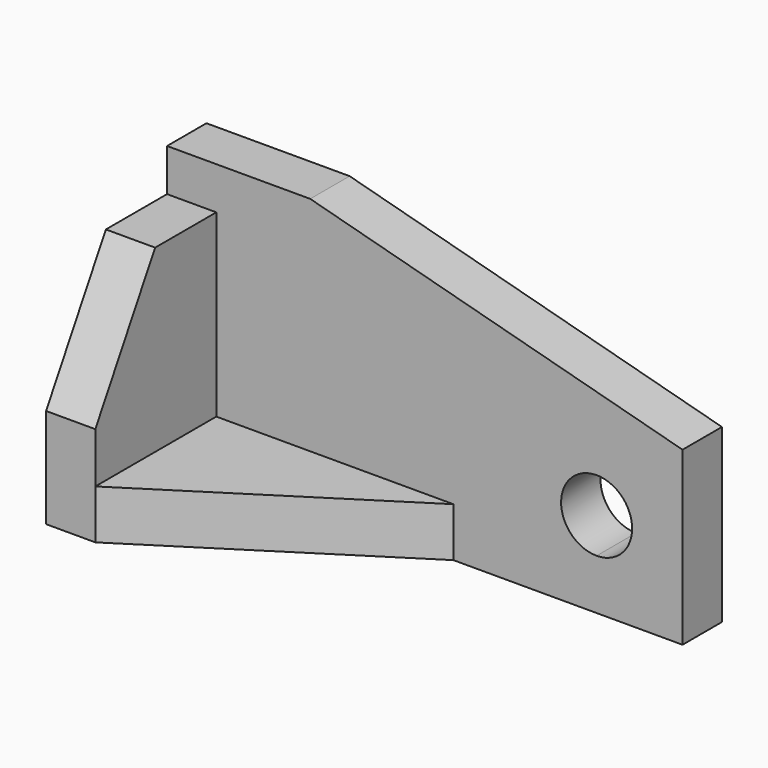
from build123d import *

# Parameters (mm, degrees)
F1_DEPTH = 10.922
F3_DEPTH = 33.528
F5_DEPTH = 10.923
F7_DEPTH = 10.923
F9_DEPTH = 10.923


with BuildPart() as f1:
    # F0 (on Front) → F1 (new body)
    with BuildSketch(Plane.XZ):
        Polygon((46.959374, 2.496264), (-35.590626, 24.61547), (-67.340626, 24.61547), (-67.340626, -35.58253), (46.959374, -35.58253), align=None)
    extrude(amount=F1_DEPTH)

    # F2 (on face) → F3 (join)
    with BuildSketch(Plane.XZ.offset(10.922)):
        Polygon((-56.418626, 15.21747), (-67.340626, 15.21747), (-67.340626, -35.58253), (-3.840626, -35.58253), (-3.840626, -24.66053), (-56.418626, -24.66053), align=None)
    extrude(amount=F3_DEPTH)

    # F4 (on face) → F5 (cut, through all)
    with BuildSketch(Plane.YZ.offset(-56.418626)):
        Polygon((-44.45, 15.21747), (-44.45, -13.48453), (-27.878893, 15.21747), align=None)
    extrude(amount=-F5_DEPTH, mode=Mode.SUBTRACT)

    # F6 (on face) → F7 (cut, through all)
    with BuildSketch(Plane.XY.offset(-24.66053)):
        Polygon((-3.840626, -10.922), (-56.418626, -44.45), (-3.840626, -44.45), align=None)
    extrude(amount=-F7_DEPTH, mode=Mode.SUBTRACT)

    # F8 (on face) → F9 (cut, through all)
    with BuildSketch(Plane.XZ.offset(10.922)):
        with BuildLine():
            ThreePointArc((35.783374, -16.53253), (22.341615, -10.964772), (27.909374, -24.40653))
            Line((27.909374, -24.40653), (27.909374, -16.53253))
            Line((27.909374, -16.53253), (35.783374, -16.53253))
        make_face()
        with BuildLine():
            Line((27.909374, -16.53253), (27.909374, -24.40653))
            ThreePointArc((27.909374, -24.40653), (33.477133, -22.100289), (35.783374, -16.53253))
            Line((35.783374, -16.53253), (27.909374, -16.53253))
        make_face()
    extrude(amount=-F9_DEPTH, mode=Mode.SUBTRACT)


solid = f1.part
